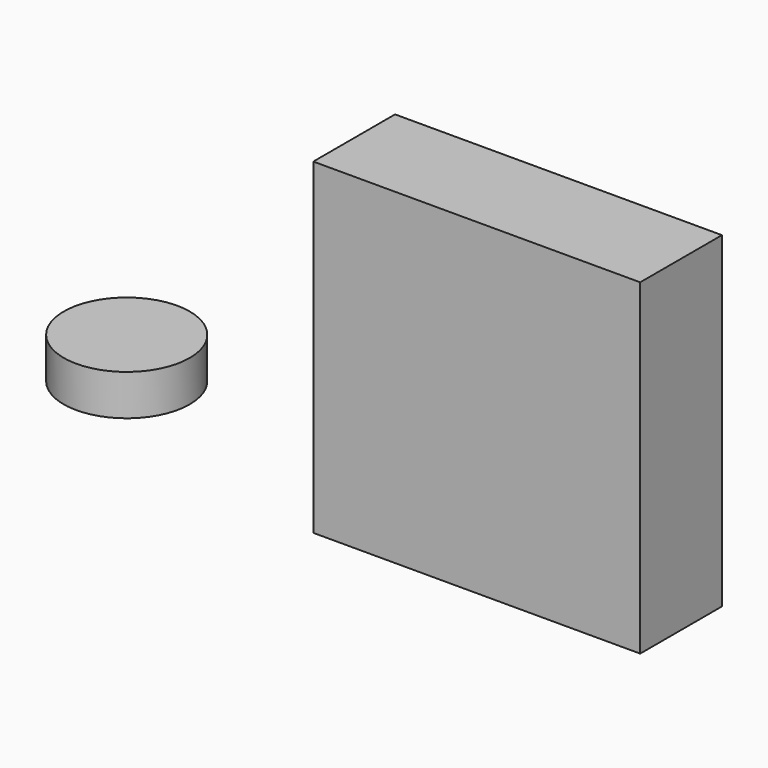
from build123d import *

# Parameters (mm, degrees)
F0_W     = 80
F0_H     = 80
F1_DEPTH = 25
F2_R     = 15.412559
F3_DEPTH = 10


with BuildPart() as f1:
    # F0 (on Front) → F1 (new body)
    with BuildSketch(Plane.XZ):
        with Locations((2.062996, 0.77941)):
            Rectangle(F0_W, F0_H)
    extrude(amount=F1_DEPTH)


with BuildPart() as f3:
    # F2 (on Top) → F3 (new body)
    with BuildSketch(Plane.XY):
        with Locations((-57.949405, -57.059009)):
            Circle(F2_R)
    extrude(amount=F3_DEPTH)


solid = Compound([f1.part, f3.part])
